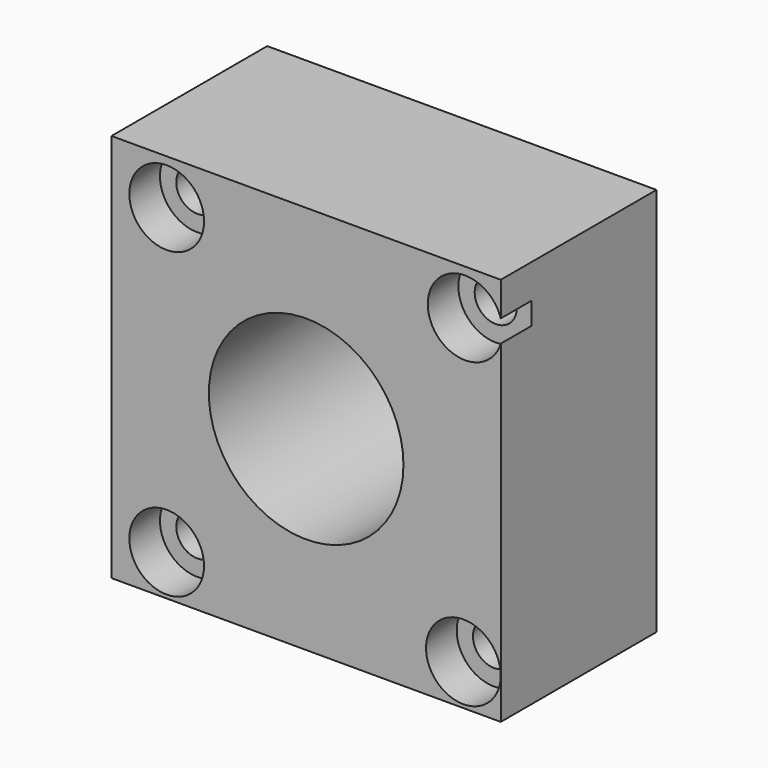
from build123d import *

# Parameters (mm, degrees)
F0_W           = 50.8
F0_H           = 50.8
F1_DEPTH       = 25.4
F2_R           = 12.7
F3_DEPTH       = 25.401
F5_D           = 5.5
F5_CBORE_D     = 9.75
F5_CBORE_DEPTH = 5


with BuildPart() as f1:
    # F0 (on Front) → F1 (new body)
    with BuildSketch(Plane.XZ):
        with Locations((25.4, 25.4)):
            Rectangle(F0_W, F0_H)
    extrude(amount=F1_DEPTH)

    # F2 (on face) → F3 (cut, through all)
    with BuildSketch(Plane.XZ.offset(25.4)):
        with Locations((25.4, 25.4)):
            Circle(F2_R)
    extrude(amount=-F3_DEPTH, mode=Mode.SUBTRACT)

    # F5 (through all)
    with Locations(Plane.XZ.offset(25.4)):
        with Locations((7.1971733123, 44.9103601277), (46.1442172527, 44.9103601277), (45.92083022, 5.3215231746), (7.1971733123, 5.3215231746)):
            CounterBoreHole(F5_D / 2, F5_CBORE_D / 2, F5_CBORE_DEPTH)


solid = f1.part
